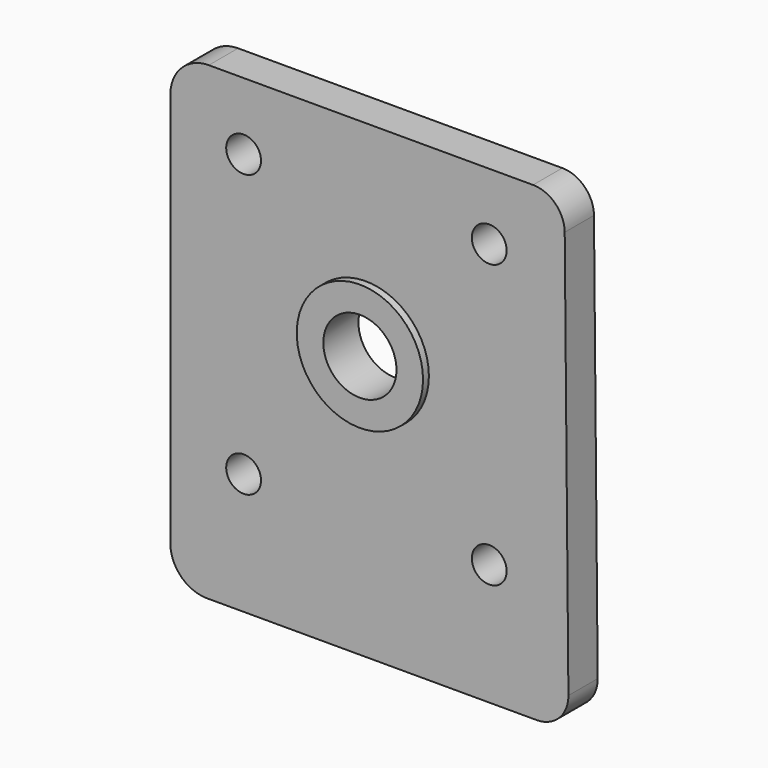
from build123d import *

# Parameters (mm, degrees)
F0_R     = 3.022598
F0_R_2   = 10.9601
F1_DEPTH = 6.35
F0_R_3   = 6.35
F2_DEPTH = 7.62


with BuildPart() as f1:
    # F0 (on Front) → F1 (new body)
    with BuildSketch(Plane.XZ):
        with BuildLine():
            Line((-6.372447, 55.266804), (50.882847, 55.266804))
            ThreePointArc((50.882847, 55.266804), (54.786488, 56.894159), (56.378253, 60.812448))
            Line((56.378253, 60.812448), (55.73595, 131.391965))
            ThreePointArc((55.73595, 131.391965), (54.108822, 135.245595), (50.240544, 136.837588))
            Line((50.240544, 136.837588), (-6.038059, 136.837588))
            ThreePointArc((-6.038059, 136.837588), (-10.764635, 134.879776), (-12.722447, 130.1532))
            Line((-12.722447, 130.1532), (-12.722447, 61.616804))
            ThreePointArc((-12.722447, 61.616804), (-10.862575, 57.126676), (-6.372447, 55.266804))
        make_face()
        with Locations((0, 76.320676)):
            Circle(F0_R, mode=Mode.SUBTRACT)
        with Locations((42.635123, 76.320676)):
            Circle(F0_R, mode=Mode.SUBTRACT)
        with Locations((21.199137, 101.73152)):
            Circle(F0_R_2, mode=Mode.SUBTRACT)
        with Locations((0, 125.187695)):
            Circle(F0_R, mode=Mode.SUBTRACT)
        with Locations((42.635123, 125.323778)):
            Circle(F0_R, mode=Mode.SUBTRACT)
    extrude(amount=F1_DEPTH)

    # F0 (on Front) → F2 (join)
    with BuildSketch(Plane.XZ):
        with Locations((21.199137, 101.73152)):
            Circle(F0_R_2)
        with Locations((21.199137, 101.73152)):
            Circle(F0_R_3, mode=Mode.SUBTRACT)
    extrude(amount=F2_DEPTH)


solid = f1.part
